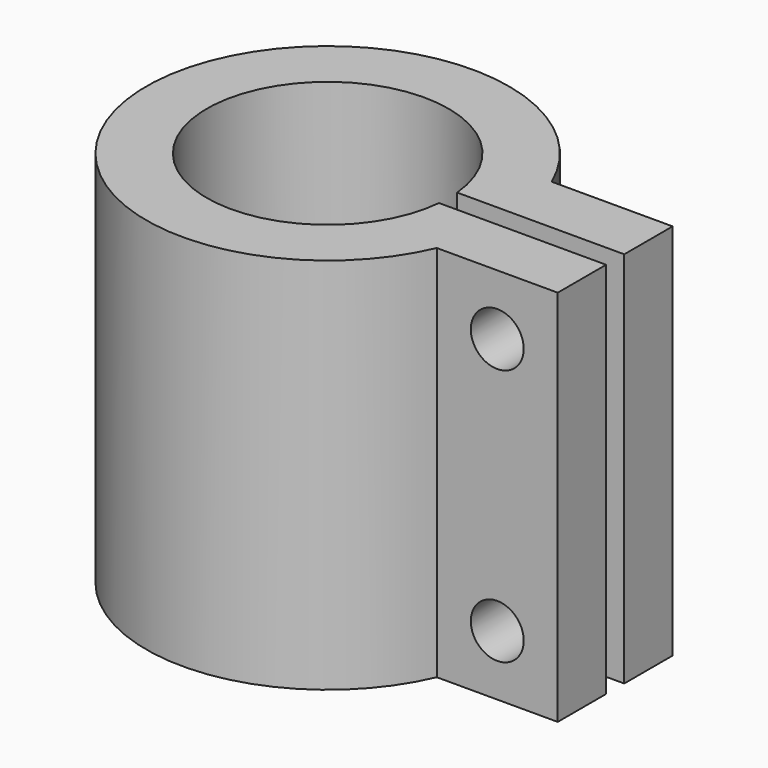
from build123d import *

# Parameters (mm, degrees)
F1_DEPTH = 25
F2_R     = 1.75
F3_DEPTH = 9.5


with BuildPart() as f1:
    # F0 (on Top) → F1 (new body)
    with BuildSketch(Plane.XY):
        with BuildLine():
            ThreePointArc((7.964766, -0.75), (-8, 0), (7.964766, 0.75))
            Line((7.964766, 0.75), (19.019868, 0.75))
            Line((19.019868, 0.75), (19.019868, 4.75))
            Line((19.019868, 4.75), (11.019868, 4.75))
            ThreePointArc((11.019868, 4.75), (-12, 0), (11.019868, -4.75))
            Line((11.019868, -4.75), (19.019868, -4.75))
            Line((19.019868, -4.75), (19.019868, -0.75))
            Line((19.019868, -0.75), (7.964766, -0.75))
        make_face()
    extrude(amount=F1_DEPTH)

    # F2 (on face) → F3 (cut, through all)
    with BuildSketch(Plane.XZ.offset(4.75)):
        with Locations((15.019868, 4)):
            Circle(F2_R)
        with Locations((15.019868, 21)):
            Circle(F2_R)
    extrude(amount=-F3_DEPTH, mode=Mode.SUBTRACT)


solid = f1.part
